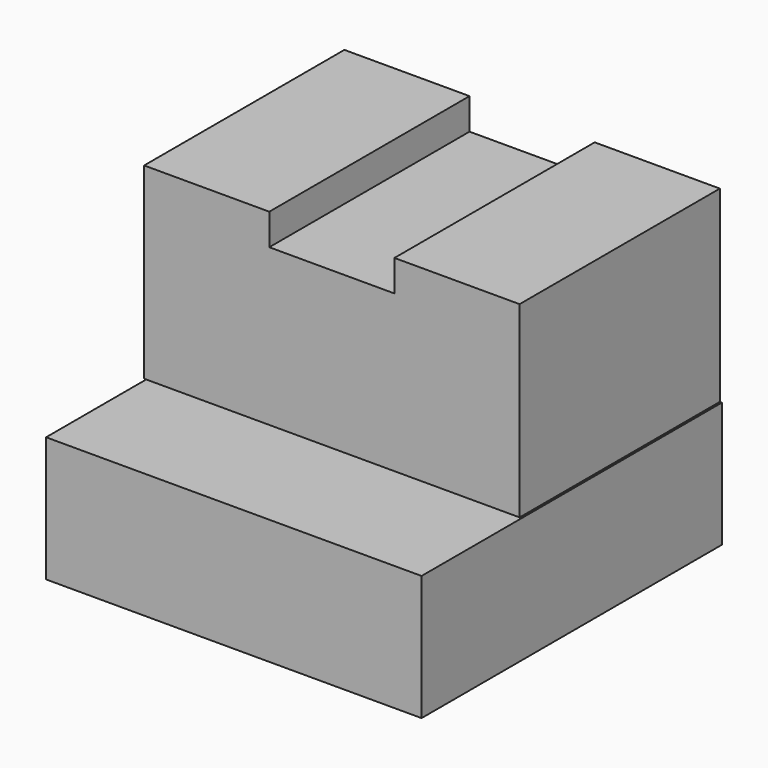
from build123d import *

# Parameters (mm, degrees)
F2_DEPTH = 25.4
F1_W     = 38.1
F1_H     = 12.7
F3_DEPTH = 38.1


with BuildPart() as f2:
    # F0 (on Front) → F2 (new body)
    with BuildSketch(Plane.XZ):
        Polygon((-5.5608570904, 19.05), (-18.2608570904, 19.05), (-18.2608570904, 0), (19.8391429096, 0), (19.8391429096, 19.05), (7.1391429096, 19.05), (7.1391429096, 15.875), (-5.5608570904, 15.875), align=None)
    extrude(amount=F2_DEPTH)


with BuildPart() as f2b:
    # F1 (on Front) → F2, piece 2 (new body)
    with BuildSketch(Plane.XZ):
        with Locations((1.0002495229, -6.35)):
            Rectangle(F1_W, F1_H)
    extrude(amount=F2_DEPTH)


with BuildPart() as f3:
    # F1 (on Front) → F3 (new body)
    with BuildSketch(Plane.XZ):
        with Locations((1.0002495229, -6.35)):
            Rectangle(F1_W, F1_H)
    extrude(amount=F3_DEPTH)


solid = Compound([f2.part, f2b.part, f3.part])
